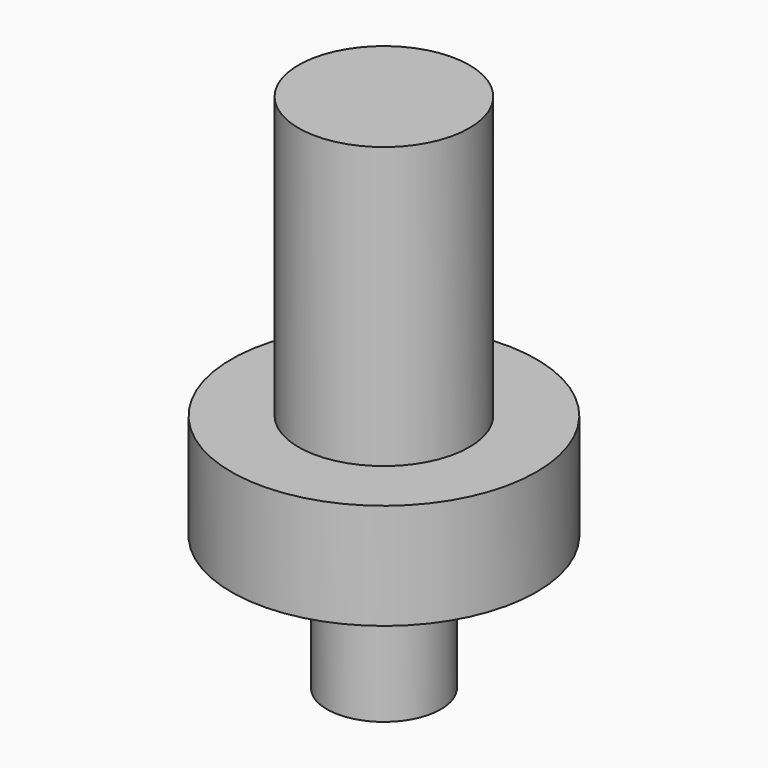
from build123d import *

# Parameters (mm, degrees)
F0_R     = 16.6624
F1_DEPTH = 54.76875
F2_R     = 29.760102
F3_DEPTH = 20.6248
F4_R     = 11.1125
F5_DEPTH = 26.1874


with BuildPart() as f1:
    # F0 (on Top) → F1 (new body)
    with BuildSketch(Plane.XY):
        Circle(F0_R)
    extrude(amount=F1_DEPTH)

    # F2 (on face) → F3 (join)
    with BuildSketch(Plane(origin=(0, 0, 0), x_dir=(1, 0, 0), z_dir=(0, 0, -1))):
        Circle(F2_R)
    extrude(amount=F3_DEPTH)

    # F4 (on face) → F5 (join)
    with BuildSketch(Plane(origin=(0, 0, -20.6248), x_dir=(1, 0, 0), z_dir=(0, 0, -1))):
        Circle(F4_R)
    extrude(amount=F5_DEPTH)


solid = f1.part
